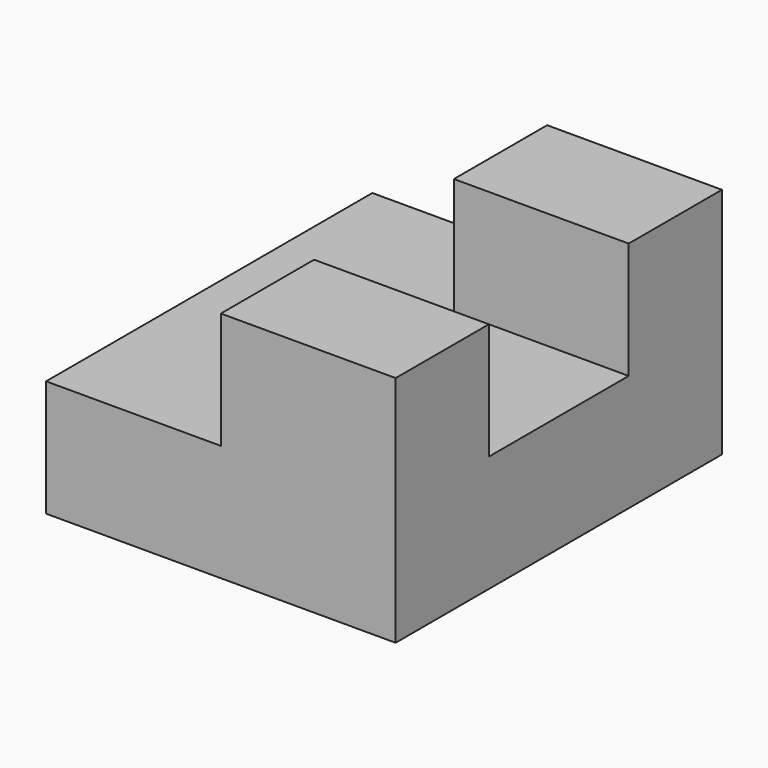
from build123d import *

# Parameters (mm, degrees)
F1_DEPTH = 88.9
F2_W     = 38.1
F2_H     = 38.1
F3_DEPTH = 25.4


with BuildPart() as f1:
    # F0 (on Front) → F1 (new body)
    with BuildSketch(Plane.XZ):
        Polygon((-48.680517, -16.745872), (-48.680517, -42.145872), (27.519483, -42.145872), (27.519483, 8.654128), (-10.580517, 8.654128), (-10.580517, -16.745872), align=None)
    extrude(amount=F1_DEPTH)

    # F2 (on face) → F3 (cut)
    with BuildSketch(Plane.XY.offset(8.654128)):
        with Locations((8.469483, -44.45)):
            Rectangle(F2_W, F2_H)
    extrude(amount=-F3_DEPTH, mode=Mode.SUBTRACT)


solid = f1.part
